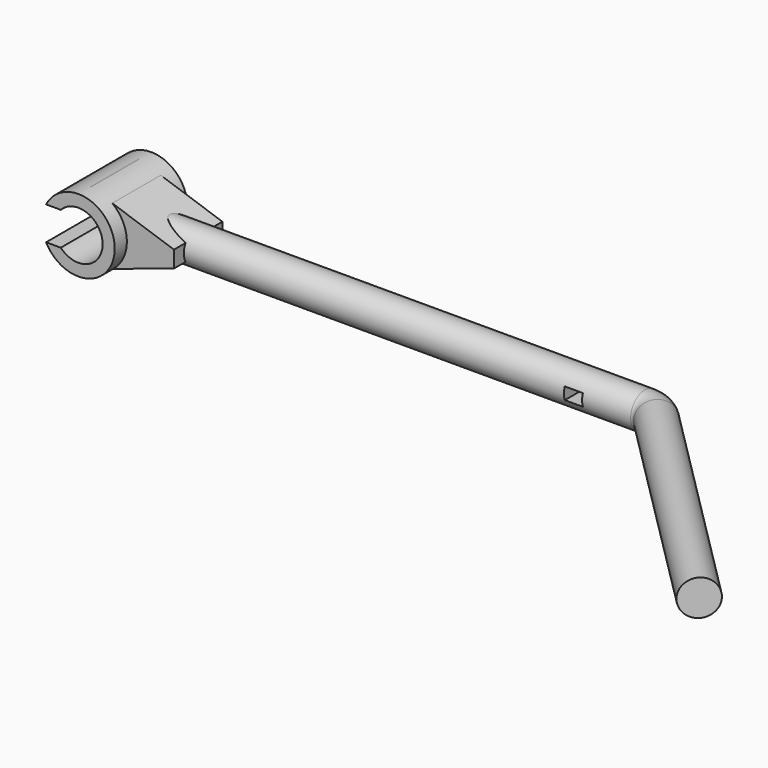
from build123d import *

# Parameters (mm, degrees)
F0_R      = 6
F0_R_2    = 4
F1_DEPTH  = 7.5
F3_R      = 2.95
F4_DEPTH  = 80
F5_W      = 20
F5_H      = 5.5
F6_DEPTH  = 25
F12_DEPTH = 5
F13_W     = 3
F13_H     = 2
F14_DEPTH = 12.5
F16_R     = 2.95


with BuildPart() as f1:
    # F0 (on Front) → F1 (new body, symmetric)
    with BuildSketch(Plane.XZ):
        Circle(F0_R)
        Circle(F0_R_2, mode=Mode.SUBTRACT)
    extrude(amount=F1_DEPTH, both=True)

    # F3 (on offset) → F4 (join)
    with BuildSketch(Plane.YZ.offset(4.5)):
        Circle(F3_R)
    extrude(amount=F4_DEPTH)

    # F5 (on face) → F6 (cut)
    with BuildSketch(Plane.XZ.offset(7.5)):
        with Locations((-10, 0)):
            Rectangle(F5_W, F5_H)
    extrude(amount=-F6_DEPTH, mode=Mode.SUBTRACT)

    # F11 (on face) → F12 (join, symmetric)
    with BuildSketch(Plane.XZ):
        Polygon((13.7702096254, 1.3738754205), (0, 6.0186968185), (5.8568101376, 0), (0, -5.9087458067), (13.7702096254, -1.3786113122), align=None)
    extrude(amount=F12_DEPTH, both=True)

    # F13 (on Front) → F14 (cut, symmetric)
    with BuildSketch(Plane.XZ):
        with Locations((78, 0)):
            Rectangle(F13_W, F13_H)
    extrude(amount=F14_DEPTH, both=True, mode=Mode.SUBTRACT)

    # F17: sweep along a path in F15
    with BuildLine(Plane.XY) as f17_path:
        Line((84.5, 0), (87.5, 0))
        ThreePointArc((87.5, 0), (89.0307337295, -0.30448187), (90.3284271247, -1.1715728753))
        Line((90.3284271247, -1.1715728753), (125.6837661841, -36.5269119346))
    # F16 (on face) → F17 (sweep)
    with BuildSketch(Plane.YZ.offset(84.5)):
        Circle(F16_R)
    sweep(path=f17_path.line)


solid = f1.part
